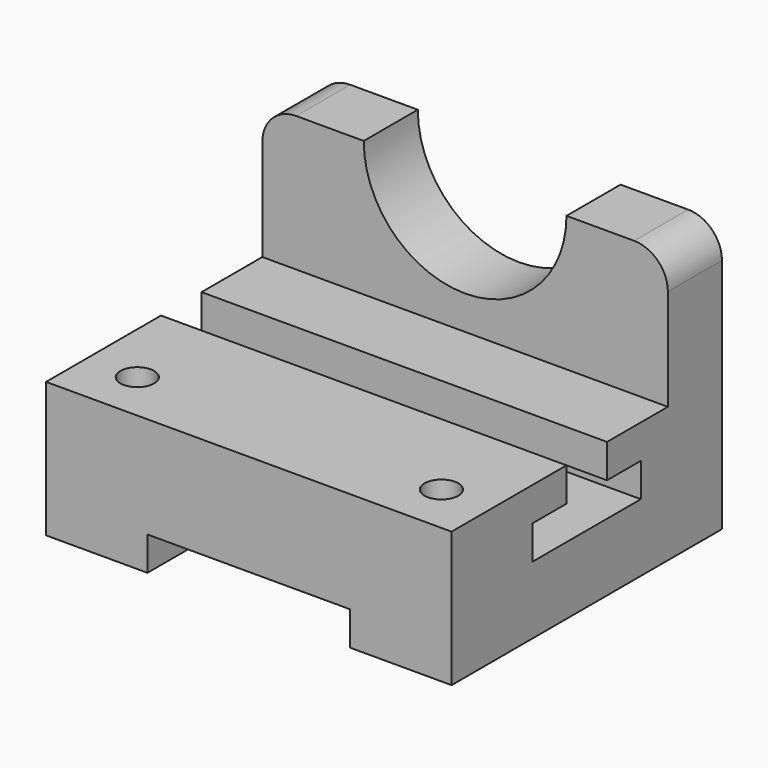
from build123d import *

# Parameters (mm, degrees)
F0_W      = 152.4
F0_H      = 101.6
F1_DEPTH  = 127
F2_W      = 152.4
F2_H      = 50.8
F3_DEPTH  = 101.6
F5_DEPTH  = 25.4
F6_W      = 76.2
F6_H      = 12.7
F7_DEPTH  = 127.001
F9_DEPTH  = 152.401
F10_R     = 6.35
F11_DEPTH = 50.801
F12_R     = 12.7


with BuildPart() as f1:
    # F0 (on Front) → F1 (new body)
    with BuildSketch(Plane.XZ):
        with Locations((76.2, 50.8)):
            Rectangle(F0_W, F0_H)
    extrude(amount=F1_DEPTH)

    # F2 (on face) → F3 (cut)
    with BuildSketch(Plane.XZ.offset(127)):
        with Locations((76.2, 76.2)):
            Rectangle(F2_W, F2_H)
    extrude(amount=-F3_DEPTH, mode=Mode.SUBTRACT)

    # F4 (on face) → F5 (cut)
    with BuildSketch(Plane.XZ.offset(25.4)):
        with BuildLine():
            Line((114.3, 101.6), (38.1, 101.6))
            ThreePointArc((38.1, 101.6), (76.2, 63.5), (114.3, 101.6))
        make_face()
    extrude(amount=-F5_DEPTH, mode=Mode.SUBTRACT)

    # F6 (on face) → F7 (cut, through all)
    with BuildSketch(Plane.XZ.offset(127)):
        with Locations((76.2, 6.35)):
            Rectangle(F6_W, F6_H)
    extrude(amount=-F7_DEPTH, mode=Mode.SUBTRACT)

    # F8 (on face) → F9 (cut, through all)
    with BuildSketch(Plane.YZ.offset(152.4)):
        Polygon((-53.975, 50.8), (-73.025, 50.8), (-73.025, 38.1), (-88.9, 38.1), (-88.9, 25.4), (-38.1, 25.4), (-38.1, 38.1), (-53.975, 38.1), align=None)
    extrude(amount=-F9_DEPTH, mode=Mode.SUBTRACT)

    # F10 (on face) → F11 (cut, through all)
    with BuildSketch(Plane.XY.offset(50.8)):
        with Locations((19.05, -107.95)):
            Circle(F10_R)
        with Locations((133.35, -107.95)):
            Circle(F10_R)
    extrude(amount=-F11_DEPTH, mode=Mode.SUBTRACT)

    # F12
    f12_edges = [f1.edges().sort_by_distance(p)[0] for p in [
        (152.4, -12.7, 101.6),
        (0, -12.7, 101.6),
    ]]
    fillet(f12_edges, radius=F12_R)


solid = f1.part
